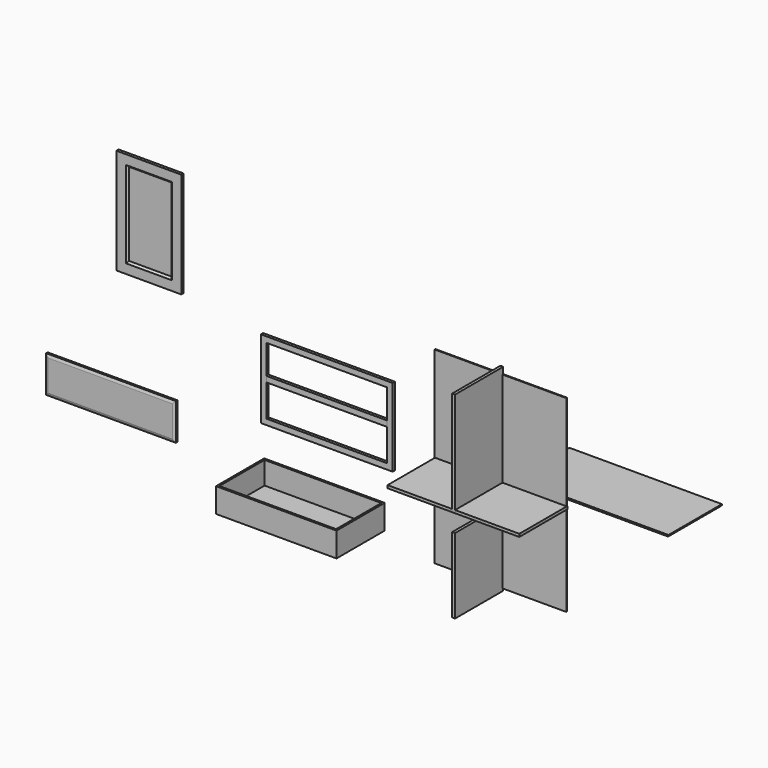
from build123d import *

# Parameters (mm, degrees)
F0_W      = 889
F0_H      = 1270
F1_DEPTH  = 6.35
F2_W      = 406.4
F2_H      = 508
F3_DEPTH  = 19.05
F4_W      = 889
F4_H      = 406.4
F5_DEPTH  = 19.05
F6_W      = 50.8
F6_H      = 609.6
F7_DEPTH  = 50.8
F8_SIZE2  = 50.8
F8_SIZE   = 6.35
F9_W      = 450.85
F9_H      = 19.05
F10_DEPTH = 1028.7
F11_SIZE  = 12.7
F12_W     = 406.4
F12_H     = 704.85
F13_DEPTH = 19.05
F14_W     = 38.1
F14_H     = 450.85
F15_DEPTH = 19.05
F14_W_2   = 812.6832866201
F14_H_2   = 38.1
F16_W     = 812.8
F16_H     = 12.7
F17_DEPTH = 406.4
F18_W     = 787.4
F18_H     = 12.7
F18_W_2   = 12.7
F18_H_2   = 381
F19_DEPTH = 152.4
F20_W     = 876.3
F20_H     = 247.65
F21_DEPTH = 19.05
F22_SIZE2 = 6.35
F22_SIZE  = 19.05
F23_W     = 438.15
F23_H     = 711.2
F23_W_2   = 285.75
F23_H_2   = 558.8
F24_DEPTH = 19.05
F25_SIZE  = 12.7
F26_W     = 285.75
F26_H     = 558.8
F27_DEPTH = 6.35


with BuildPart() as f1:
    # F0 (on Front) → F1 (new body)
    with BuildSketch(Plane.XZ):
        with Locations((5.4728352126, 26.0989052054)):
            Rectangle(F0_W, F0_H)
    extrude(amount=F1_DEPTH)


with BuildPart() as f3:
    # F2 (on Right) → F3 (new body)
    with BuildSketch(Plane.YZ):
        with Locations((-203.2, -371.6401337114)):
            Rectangle(F2_W, F2_H)
    extrude(amount=F3_DEPTH)


with BuildPart() as f5:
    # F4 (on Top) → F5 (new body)
    with BuildSketch(Plane.XY):
        with Locations((8.1950770849, -203.2)):
            Rectangle(F4_W, F4_H)
    extrude(amount=F5_DEPTH)


with BuildPart() as f7:
    # F6 (on Right) → F7 (new body)
    with BuildSketch(Plane.YZ):
        with Locations((25.4, 257.6080970049)):
            Rectangle(F6_W, F6_H)
        with Locations((25.4, 257.6080970049)):
            Rectangle(F6_W, F6_H)
    extrude(amount=F7_DEPTH)

    # F8
    f8_edges = [f7.edges().sort_by_distance(p)[0] for p in [
        (50.8, 25.4, -47.191903),
        (25.4, 50.8, -47.191903),
        (0, 25.4, -47.191903),
        (25.4, 0, -47.191903),
    ]]
    f8_side = f7.faces().sort_by_distance((25.4, 25.4, -47.191903))[0]
    chamfer(f8_edges, length=F8_SIZE, length2=F8_SIZE2, reference=f8_side)


with BuildPart() as f10:
    # F9 (on Right) → F10 (new body)
    with BuildSketch(Plane.YZ):
        with Locations((356.8171710134, -28.8148357306)):
            Rectangle(F9_W, F9_H)
    extrude(amount=F10_DEPTH)

    # F11
    f11_edges = [f10.edges().sort_by_distance(p)[0] for p in [
        (1028.7, 356.817171, -38.339836),
        (514.35, 131.392171, -38.339836),
        (0, 356.817171, -38.339836),
    ]]
    chamfer(f11_edges, length=F11_SIZE)


with BuildPart() as f13:
    # F12 (on Right) → F13 (new body)
    with BuildSketch(Plane.YZ):
        with Locations((-203.2, 352.425)):
            Rectangle(F12_W, F12_H)
    extrude(amount=F13_DEPTH)


with BuildPart() as f15:
    # F14 (on Front) → F15 (new body)
    with BuildSketch(Plane.XZ):
        Polygon((-712.1593940044, 378.3770244002), (-1601.1593940044, 378.3770244002), (-1601.1593940044, 340.2770244002), (-1563.0593940044, 340.2770244002), (-750.2593940044, 340.2770244002), (-712.1593940044, 340.2770244002), align=None)
        with Locations((-1582.1093940044, 114.8520244002)):
            Rectangle(F14_W, F14_H)
        Polygon((-1563.0593940044, -110.5729755998), (-1601.1593940044, -110.5729755998), (-1601.1593940044, -148.6729755998), (-712.1593940044, -148.6729755998), (-712.1593940044, -110.5729755998), (-750.2593940044, -110.5729755998), align=None)
        Polygon((-712.1593940044, -110.5729755998), (-712.1593940044, 340.2770244002), (-750.2593940044, 340.2770244002), (-750.2593940044, 143.4270244002), (-750.1426806245, 143.4270244002), (-750.1426806245, 105.3270244002), (-750.2593940044, 105.3270244002), (-750.2593940044, -110.5729755998), align=None)
    extrude(amount=F15_DEPTH)


with BuildPart() as f15b:
    # F14 (on Front) → F15, piece 2 (new body)
    with BuildSketch(Plane.XZ):
        with Locations((-1156.6010373144, 124.3770244002)):
            Rectangle(F14_W_2, F14_H_2)
    extrude(amount=F15_DEPTH)


with BuildPart() as f17:
    # F16 (on Front) → F17 (new body)
    with BuildSketch(Plane.XZ):
        with Locations((-1187.1631792356, -522.4187374115)):
            Rectangle(F16_W, F16_H)
    extrude(amount=F17_DEPTH)

    # F18 (on face) → F19 (join)
    with BuildSketch(Plane.XY.offset(-516.0687374115)):
        with Locations((-1187.1631792356, -6.35)):
            Rectangle(F18_W, F18_H)
        with Locations((-787.1131792356, -203.2)):
            Rectangle(F18_W_2, F18_H_2)
        with Locations((-1187.1631792356, -400.05)):
            Rectangle(F18_W, F18_H)
        with Locations((-1587.2131792356, -203.2)):
            Rectangle(F18_W_2, F18_H_2)
        with Locations((-787.1131792356, -6.35)):
            Rectangle(F18_W_2, F18_H)
        with Locations((-787.1131792356, -400.05)):
            Rectangle(F18_W_2, F18_H)
        with Locations((-1587.2131792356, -400.05)):
            Rectangle(F18_W_2, F18_H)
        with Locations((-1587.2131792356, -6.35)):
            Rectangle(F18_W_2, F18_H)
    extrude(amount=F19_DEPTH)


with BuildPart() as f21:
    # F20 (on Front) → F21 (new body)
    with BuildSketch(Plane.XZ):
        with Locations((-2616.9959285736, -332.9746895482)):
            Rectangle(F20_W, F20_H)
    extrude(amount=F21_DEPTH)

    # F22
    f22_edges = [f21.edges().sort_by_distance(p)[0] for p in [
        (-2616.995929, -19.05, -209.14969),
        (-2178.845929, -19.05, -332.97469),
        (-2616.995929, -19.05, -456.79969),
        (-3055.145929, -19.05, -332.97469),
    ]]
    f22_side = f21.faces().sort_by_distance((-2616.995929, -19.05, -332.97469))[0]
    chamfer(f22_edges, length=F22_SIZE, length2=F22_SIZE2, reference=f22_side)


with BuildPart() as f24:
    # F23 (on Front) → F24 (new body)
    with BuildSketch(Plane.XZ):
        with Locations((-2356.7285892487, 796.2256377697)):
            Rectangle(F23_W, F23_H)
        with Locations((-2356.7285892487, 796.2256377697)):
            Rectangle(F23_W_2, F23_H_2, mode=Mode.SUBTRACT)
    extrude(amount=F24_DEPTH)

    # F25
    f25_edges = [f24.edges().sort_by_distance(p)[0] for p in [
        (-2499.603589, -19.05, 796.225638),
        (-2356.728589, -19.05, 1075.625638),
        (-2213.853589, -19.05, 796.225638),
        (-2356.728589, -19.05, 516.825638),
    ]]
    chamfer(f25_edges, length=F25_SIZE)

    # F26 (on Front) → F27 (join)
    with BuildSketch(Plane.XZ):
        with Locations((-2356.7285892487, 796.2256377697)):
            Rectangle(F26_W, F26_H)
    extrude(amount=F27_DEPTH)


solid = Compound([f1.part, f3.part, f5.part, f7.part, f10.part, f13.part, f15.part, f15b.part, f17.part, f21.part, f24.part])
